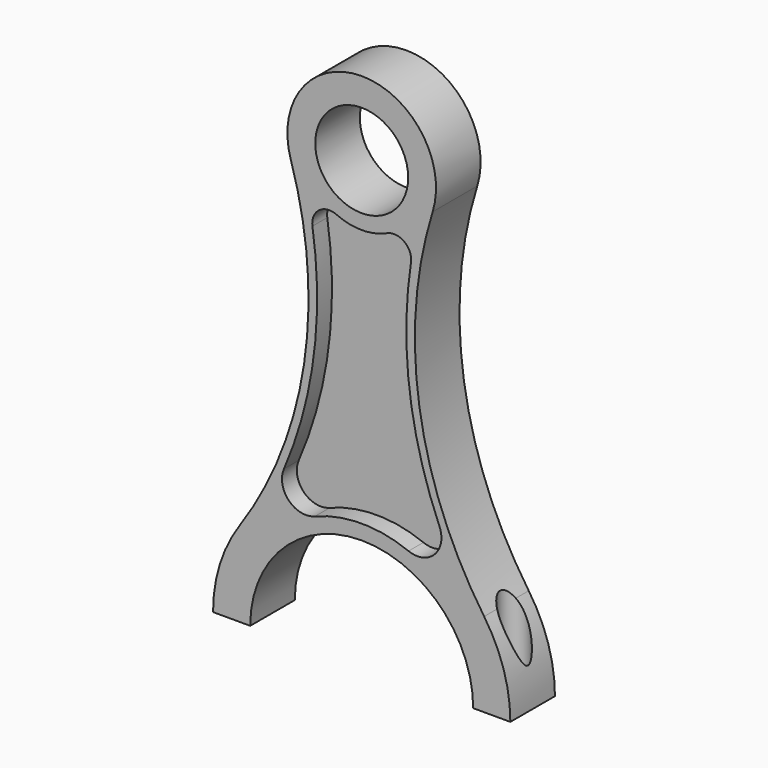
from build123d import *

# Parameters (mm, degrees)
F0_R     = 15.875
F1_DEPTH = 19.05
F2_R     = 4.7625
F3_DEPTH = 53.975
F5_DEPTH = 6.35
F7_DEPTH = 6.35


with BuildPart() as f1:
    # F0 (on Front) → F1 (new body)
    with BuildSketch(Plane.XZ):
        with BuildLine():
            ThreePointArc((-24.250386, 93.899172), (-19.6918, 33.855441), (-41.842636, -22.138942))
            ThreePointArc((-41.842636, -22.138942), (-48.508999, -35.86211), (-50.8, -50.945779))
            Line((-50.8, -50.945779), (-38.1, -50.945779))
            ThreePointArc((-38.1, -50.945779), (0, -12.845779), (38.1, -50.945779))
            Line((38.1, -50.945779), (50.8, -50.945779))
            ThreePointArc((50.8, -50.945779), (48.508999, -35.86211), (41.842636, -22.138942))
            ThreePointArc((41.842636, -22.138942), (19.6918, 33.855441), (24.250386, 93.899172))
            ThreePointArc((24.250386, 93.899172), (0, 126.854221), (-24.250386, 93.899172))
        make_face()
        with Locations((0, 101.454221)):
            Circle(F0_R, mode=Mode.SUBTRACT)
    extrude(amount=F1_DEPTH)

    # F2 (on Top) → F3 (cut)
    with BuildSketch(Plane.XY):
        with Locations((-44.45, -9.525)):
            Circle(F2_R)
        with Locations((44.45, -9.525)):
            Circle(F2_R)
    extrude(amount=-F3_DEPTH, mode=Mode.SUBTRACT)

    # F4 (on Front) → F5 (cut)
    with BuildSketch(Plane.XZ):
        with BuildLine():
            ThreePointArc((-16.837664, 76.2), (-16.367797, 37.417239), (-26.57924, 0))
            ThreePointArc((-26.57924, 0), (-25.171809, -7.381909), (-17.79823, -8.832344))
            ThreePointArc((-17.79823, -8.832344), (0, -5.225779), (17.79823, -8.832344))
            ThreePointArc((17.79823, -8.832344), (25.171809, -7.381909), (26.57924, 0))
            ThreePointArc((26.57924, 0), (16.367797, 37.417239), (16.837664, 76.2))
            ThreePointArc((16.837664, 76.2), (14.595118, 81.720839), (8.67256, 82.378091))
            ThreePointArc((8.67256, 82.378091), (0, 80.499221), (-8.67256, 82.378091))
            ThreePointArc((-8.67256, 82.378091), (-14.595118, 81.720839), (-16.837664, 76.2))
        make_face()
    extrude(amount=F5_DEPTH, mode=Mode.SUBTRACT)

    # F6 (on face) → F7 (cut)
    with BuildSketch(Plane.XZ.offset(19.05)):
        with BuildLine():
            ThreePointArc((-16.837665, 76.200008), (-16.367858, 37.417212), (-26.579377, -4.3e-05))
            ThreePointArc((-26.579377, -4.3e-05), (-24.918717, -8.953005), (-16.011589, -10.84414))
            ThreePointArc((-16.011589, -10.84414), (-0.00013, -7.765779), (16.011348, -10.844044))
            ThreePointArc((16.011348, -10.844044), (24.918437, -8.952885), (26.579103, 4.3e-05))
            ThreePointArc((26.579103, 4.3e-05), (16.367736, 37.417266), (16.837662, 76.199992))
            ThreePointArc((16.837662, 76.199992), (14.595121, 81.720837), (8.67256, 82.378091))
            ThreePointArc((8.67256, 82.378091), (0, 80.499221), (-8.67256, 82.378091))
            ThreePointArc((-8.67256, 82.378091), (-14.595115, 81.720842), (-16.837665, 76.200008))
        make_face()
    extrude(amount=-F7_DEPTH, mode=Mode.SUBTRACT)


solid = f1.part
